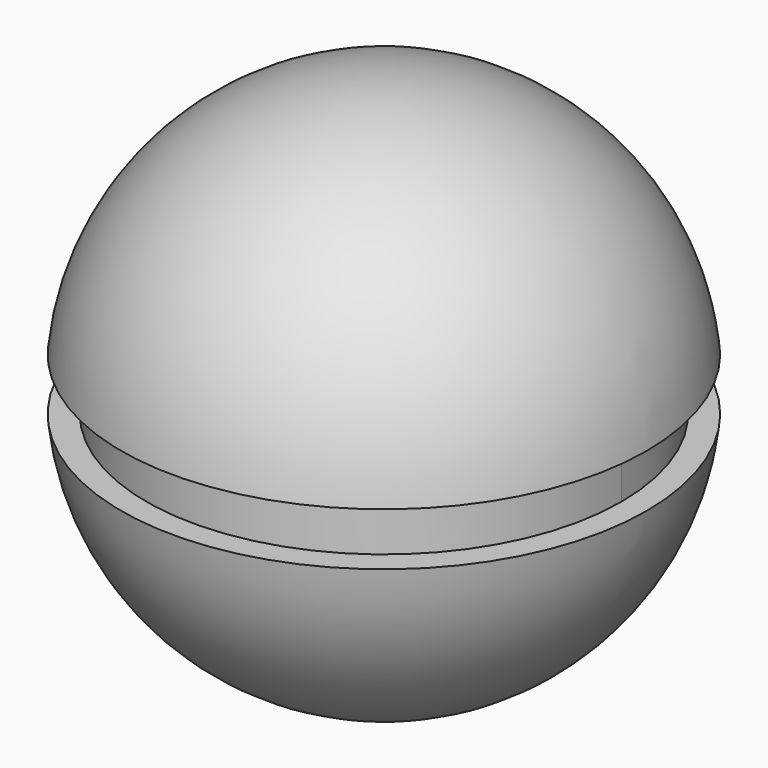
from build123d import *

# Parameters (mm, degrees)
F2_R      = 50
F2_R_2    = 45
F3_DEPTH  = 5
F5_R      = 13.75
F6_DEPTH  = 5.5
F7_R      = 10
F8_DEPTH  = 2.5
F9_R      = 7.5
F10_DEPTH = 2


with BuildPart() as f1:
    # F0 (on Front) → F1 (revolve)
    with BuildSketch(Plane.XZ):
        with BuildLine():
            Line((0, 50), (0, -50))
            ThreePointArc((0, -50), (50, 0), (0, 50))
        make_face()
    revolve(axis=Axis((0, 0, 0), (0, 0, -1)))

    # F2 (on Top) → F3 (cut, symmetric)
    with BuildSketch(Plane.XY):
        Circle(F2_R)
        Circle(F2_R_2, mode=Mode.SUBTRACT)
    extrude(amount=F3_DEPTH, both=True, mode=Mode.SUBTRACT)

    # F5 (on offset) → F6 (cut)
    with BuildSketch(Plane.YZ.offset(-50)):
        Circle(F5_R)
    extrude(amount=F6_DEPTH, mode=Mode.SUBTRACT)

    # F7 (on face) → F8 (join)
    with BuildSketch(Plane(origin=(-44.5, 0, 0), x_dir=(0, -1, 0), z_dir=(-1, 0, 0))):
        Circle(F7_R)
    extrude(amount=F8_DEPTH)

    # F9 (on face) → F10 (join)
    with BuildSketch(Plane(origin=(-47, 0, 0), x_dir=(0, -1, 0), z_dir=(-1, 0, 0))):
        Circle(F9_R)
    extrude(amount=F10_DEPTH)


solid = f1.part
